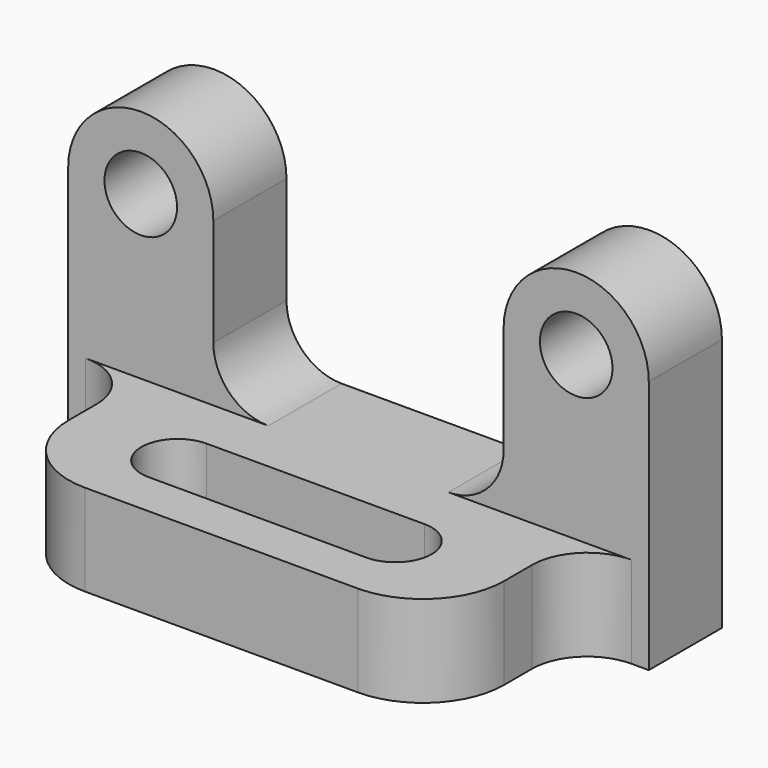
from build123d import *

# Parameters (mm, degrees)
F1_DEPTH  = 16.002
F2_R      = 9.652
F3_W      = 76.2
F3_H      = 29.972
F4_DEPTH  = 16.002
F5_R      = 14.224
F6_R      = 9.652
F7_R      = 6.35
F8_DEPTH  = 16.003
F10_DEPTH = 16.003


with BuildPart() as f1:
    # F0 (on Front) → F1 (new body)
    with BuildSketch(Plane.XZ):
        with BuildLine():
            Line((0, 44.45), (0, 0))
            Line((0, 0), (101.6, 0))
            Line((101.6, 0), (101.6, 44.45))
            ThreePointArc((101.6, 44.45), (88.9, 57.15), (76.2, 44.45))
            Line((76.2, 44.45), (76.2, 16.002))
            Line((76.2, 16.002), (25.4, 16.002))
            Line((25.4, 16.002), (25.4, 44.45))
            ThreePointArc((25.4, 44.45), (12.7, 57.15), (0, 44.45))
        make_face()
    extrude(amount=F1_DEPTH)

    # F2
    f2_edges = [f1.edges().sort_by_distance(p)[0] for p in [
        (25.4, -8.001, 16.002),
        (76.2, -8.001, 16.002),
    ]]
    fillet(f2_edges, radius=F2_R)

    # F3 (on Top) → F4 (join)
    with BuildSketch(Plane.XY):
        with Locations((50.8, -30.988)):
            Rectangle(F3_W, F3_H)
    extrude(amount=F4_DEPTH)

    # F5
    f5_edges = [f1.edges().sort_by_distance(p)[0] for p in [
        (88.9, -45.974, 8.001),
        (12.7, -45.974, 8.001),
    ]]
    fillet(f5_edges, radius=F5_R)

    # F6
    f6_edges = [f1.edges().sort_by_distance(p)[0] for p in [
        (88.9, -16.002, 8.001),
        (12.7, -16.002, 8.001),
    ]]
    fillet(f6_edges, radius=F6_R)

    # F7 (on face) → F8 (cut, through all)
    with BuildSketch(Plane.XZ.offset(16.002)):
        with Locations((12.7, 44.45)):
            Circle(F7_R)
        with Locations((88.9, 44.45)):
            Circle(F7_R)
    extrude(amount=-F8_DEPTH, mode=Mode.SUBTRACT)

    # F9 (on face) → F10 (cut, through all)
    with BuildSketch(Plane.XY.offset(16.002)):
        with BuildLine():
            Line((69.85, -25.4), (31.75, -25.4))
            ThreePointArc((31.75, -25.4), (25.4, -31.75), (31.75, -38.1))
            Line((31.75, -38.1), (69.85, -38.1))
            ThreePointArc((69.85, -38.1), (76.2, -31.75), (69.85, -25.4))
        make_face()
    extrude(amount=-F10_DEPTH, mode=Mode.SUBTRACT)


solid = f1.part
